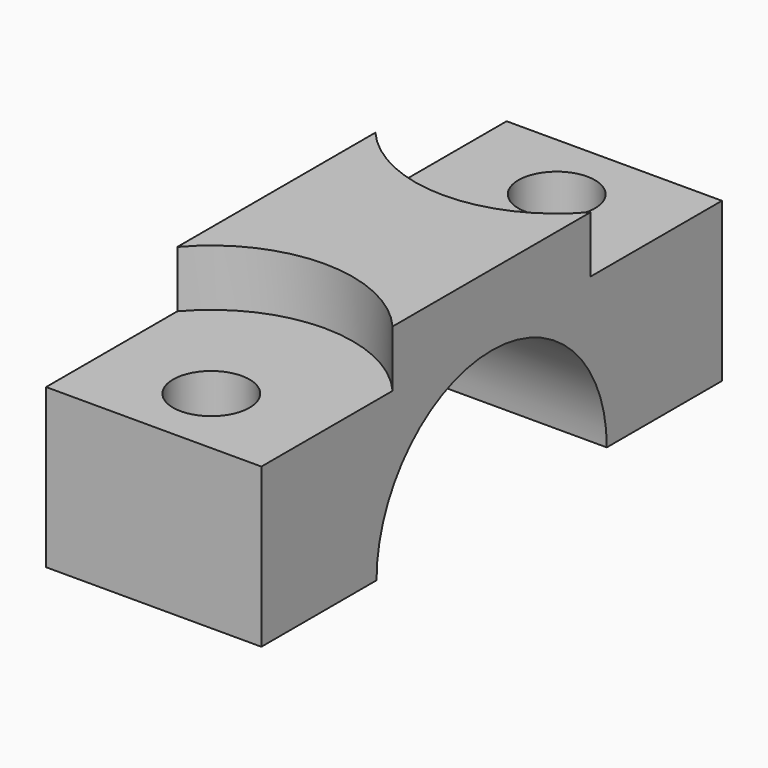
from build123d import *

# Parameters (mm, degrees)
F1_DEPTH       = 9.5
F3_D           = 6.75
F3_CBORE_D     = 25
F3_CBORE_DEPTH = 5


with BuildPart() as f1:
    # F0 (on Right) → F1 (new body, symmetric)
    with BuildSketch(Plane.YZ):
        with BuildLine():
            Line((25.4, 19), (-25.4, 19))
            Line((-25.4, 19), (-25.4, 0))
            Line((-25.4, 0), (-12.7, 0))
            ThreePointArc((-12.7, 0), (0, 12.7), (12.7, 0))
            Line((12.7, 0), (25.4, 0))
            Line((25.4, 0), (25.4, 19))
        make_face()
    extrude(amount=F1_DEPTH, both=True)

    # F3 (through all)
    with Locations(Plane.XY.offset(19)):
        with Locations((0, 19.05), (0, -19.05)):
            CounterBoreHole(F3_D / 2, F3_CBORE_D / 2, F3_CBORE_DEPTH)


solid = f1.part
